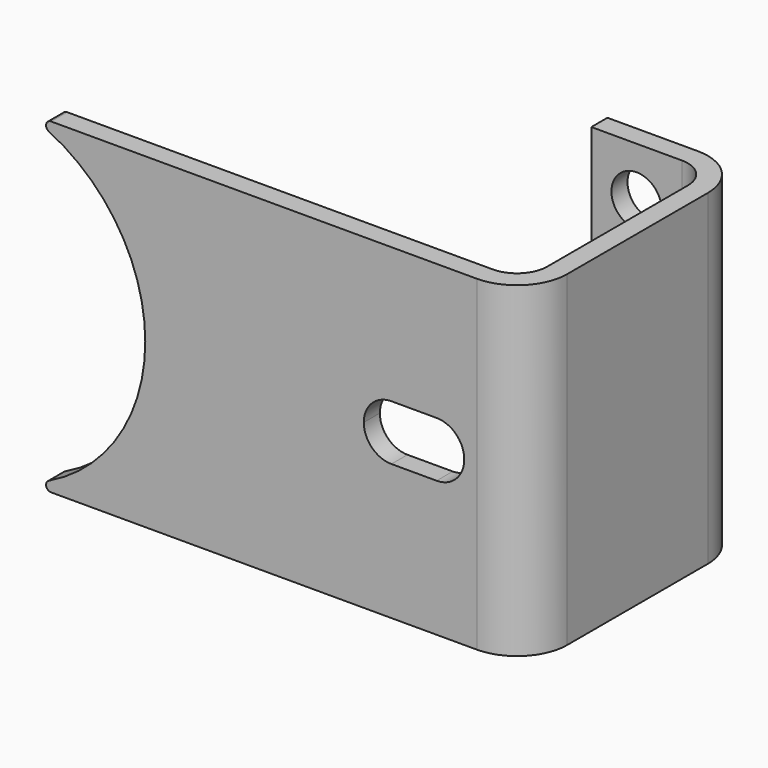
from build123d import *

# Parameters (mm, degrees)
F1_DEPTH  = 65
F3_R      = 34
F4_DEPTH  = 25
F5_R      = 1
F7_R      = 5
F8_DEPTH  = 25
F11_DEPTH = 25


with BuildPart() as f1:
    # F0 (on Top) → F1 (new body)
    with BuildSketch(Plane.XY):
        with BuildLine():
            ThreePointArc((-10, 0), (-2.9289321881, 2.9289321881), (0, 10))
            Line((0, 10), (0, 45))
            ThreePointArc((0, 45), (-2.9289321881, 52.0710678119), (-10, 55))
            Line((-10, 55), (-28, 55))
            Line((-28, 55), (-28, 51))
            Line((-28, 51), (-10, 51))
            ThreePointArc((-10, 51), (-5.7573593129, 49.2426406871), (-4, 45))
            Line((-4, 45), (-4, 10))
            ThreePointArc((-4, 10), (-5.7573593129, 5.7573593129), (-10, 4))
            Line((-10, 4), (-110, 4))
            Line((-110, 4), (-110, 0))
            Line((-110, 0), (-10, 0))
        make_face()
    extrude(amount=F1_DEPTH)

    # F3 (on offset) → F4 (cut)
    with BuildSketch(Plane(origin=(0, 4, 0), x_dir=(-1, 0, 0), z_dir=(0, 1, 0))):
        with Locations((110, 32.5)):
            Circle(F3_R)
    extrude(amount=-F4_DEPTH, mode=Mode.SUBTRACT)

    # F5
    f5_edges = [f1.edges().sort_by_distance(p)[0] for p in [
        (-100.012508, 2, 65),
        (-100.012508, 2, 0),
    ]]
    fillet(f5_edges, radius=F5_R)

    # F7 (on offset) → F8 (cut)
    with BuildSketch(Plane(origin=(0, 55, 0), x_dir=(-1, 0, 0), z_dir=(0, 1, 0))):
        with Locations((19, 55)):
            Circle(F7_R)
        with Locations((19, 10)):
            Circle(F7_R)
    extrude(amount=-F8_DEPTH, mode=Mode.SUBTRACT)

    # F10 (on offset) → F11 (cut)
    with BuildSketch(Plane.XZ):
        with BuildLine():
            Line((-27, 27), (-18, 27))
            ThreePointArc((-18, 27), (-14.1109127035, 28.6109127035), (-12.5, 32.5))
            ThreePointArc((-12.5, 32.5), (-14.1109127035, 36.3890872965), (-18, 38))
            Line((-18, 38), (-27, 38))
            ThreePointArc((-27, 38), (-30.8890872965, 36.3890872965), (-32.5, 32.5))
            ThreePointArc((-32.5, 32.5), (-30.8890872965, 28.6109127035), (-27, 27))
        make_face()
    extrude(amount=-F11_DEPTH, mode=Mode.SUBTRACT)


solid = f1.part
